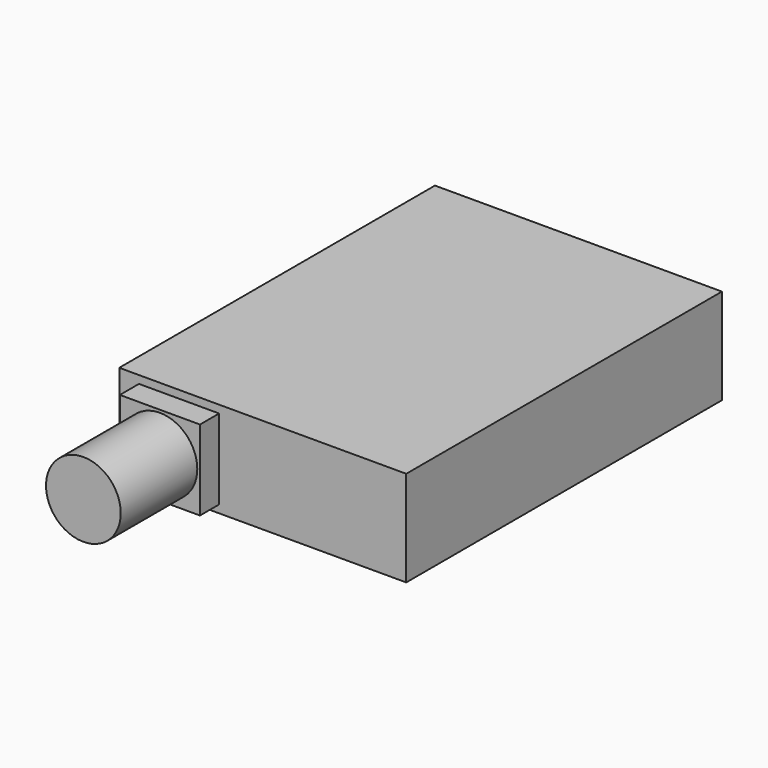
from build123d import *

# Parameters (mm, degrees)
F0_W     = 24
F0_H     = 33
F1_DEPTH = 8
F2_W     = 6.7
F2_H     = 6.7
F3_DEPTH = 2
F4_R     = 3.125
F5_DEPTH = 8


with BuildPart() as f1:
    # F0 (on Top) → F1 (new body)
    with BuildSketch(Plane.XY):
        Rectangle(F0_W, F0_H)
    extrude(amount=F1_DEPTH)

    # F2 (on face) → F3 (join)
    with BuildSketch(Plane.XZ.offset(16.5)):
        with Locations((-7, 4)):
            Rectangle(F2_W, F2_H)
    extrude(amount=F3_DEPTH)

    # F4 (on face) → F5 (join)
    with BuildSketch(Plane.XZ.offset(18.5)):
        with Locations((-7, 4)):
            Circle(F4_R)
    extrude(amount=F5_DEPTH)


solid = f1.part
